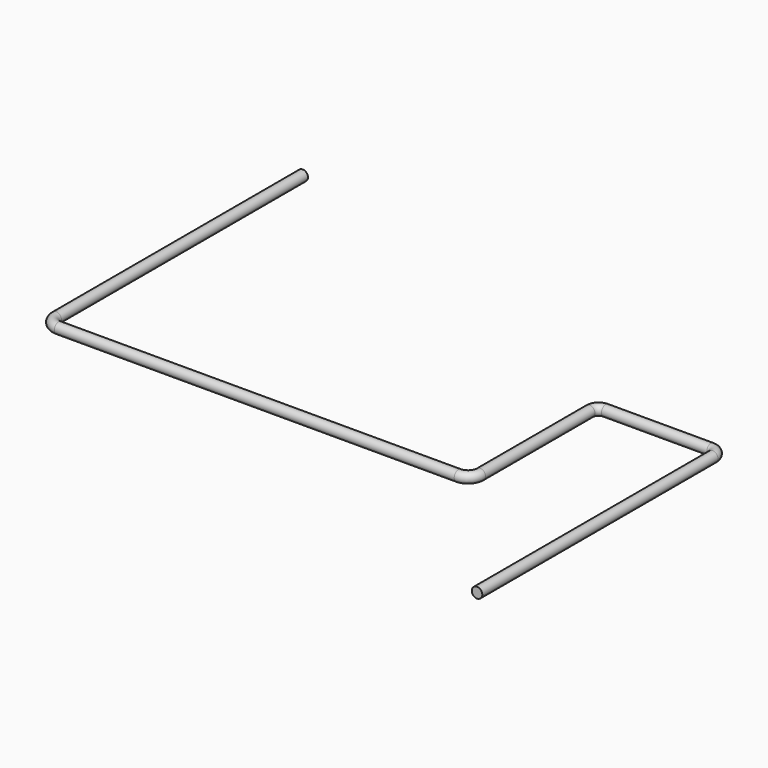
from build123d import *

# Parameters (mm, degrees)
F2_R = 25.4


with BuildPart() as f3:
    # F3: sweep along a path in F0
    with BuildLine(Plane.XY) as f3_path:
        Line((609.6, -711.2), (609.6, 711.2))
        ThreePointArc((609.6, 711.2), (594.7210244843, 747.1210244843), (558.8, 762))
        Line((558.8, 762), (50.8, 762))
        ThreePointArc((50.8, 762), (14.8789755157, 747.1210244843), (0, 711.2))
        Line((0, 711.2), (0, 50.8))
        ThreePointArc((0, 50.8), (-14.8789755157, 14.8789755157), (-50.8, 0))
        Line((-50.8, 0), (-1981.2, 0))
        ThreePointArc((-1981.2, 0), (-2017.1210244843, 14.8789755157), (-2032, 50.8))
        Line((-2032, 50.8), (-2032, 1538.7144329799))
    # F2 (on line) → F3 (sweep)
    with BuildSketch(Plane.XZ.offset(711.2)):
        with Locations((601.8556048433, 0)):
            Circle(F2_R)
    sweep(path=f3_path.line)


solid = f3.part
